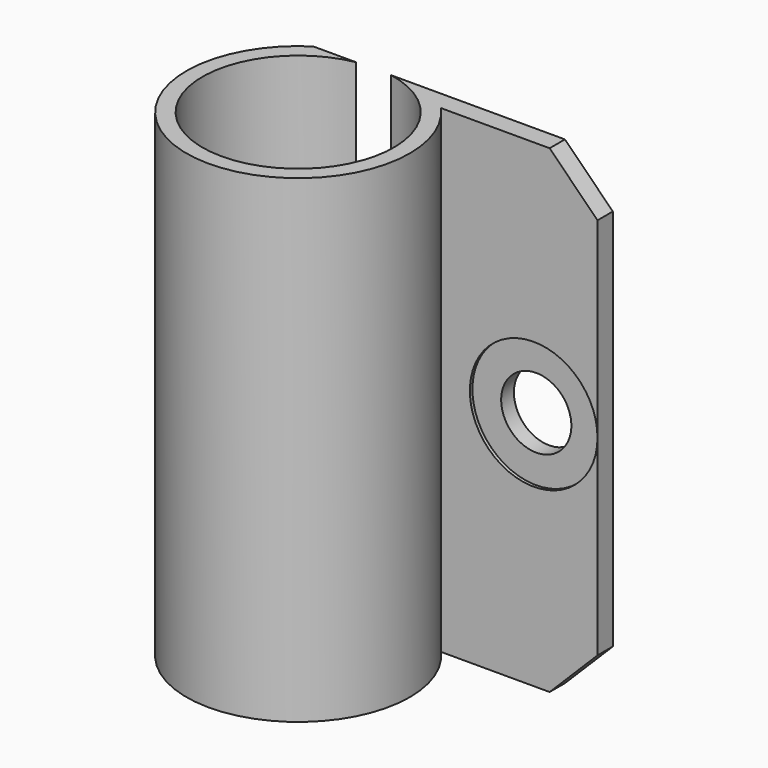
from build123d import *

# Parameters (mm, degrees)
SKETCH_R        = 7
SKETCH_R_2      = 6
PAD_DEPTH       = 30
SKETCH001_W     = 21.169265
SKETCH001_H     = 5.002638
POCKET_DEPTH    = 30.001
SKETCH002_W     = 11.233038
SKETCH002_H     = 30
SKETCH002_R     = 2.2
PAD001_DEPTH    = 1.2
SKETCH003_R     = 4
POCKET001_DEPTH = 0.2
CHAMFER_SIZE    = 3


with BuildPart() as part:
    # Sketch → Pad (new body)
    with BuildSketch(Plane.XY):
        Circle(SKETCH_R)
        Circle(SKETCH_R_2, mode=Mode.SUBTRACT)
    extrude(amount=PAD_DEPTH)

    # Sketch001 → Pocket (cut, through all)
    with BuildSketch(Plane.XY.offset(30)):
        with Locations((-0.201503, 8.401319)):
            Rectangle(SKETCH001_W, SKETCH001_H)
    extrude(amount=-POCKET_DEPTH, mode=Mode.SUBTRACT)

    # Sketch002 → Pad001 (new body)
    with BuildSketch(Plane(origin=(0, 5.9, 0), x_dir=(-1, 0, 0), z_dir=(0, 1, 0))):
        with Locations((-9.383481, 15)):
            Rectangle(SKETCH002_W, SKETCH002_H)
        with Locations((-11, 15)):
            Circle(SKETCH002_R, mode=Mode.SUBTRACT)
    extrude(amount=-PAD001_DEPTH)

    # Sketch003 → Pocket001 (cut)
    with BuildSketch(Plane.XZ.offset(-4.7)):
        with Locations((11, 15)):
            Circle(SKETCH003_R)
    extrude(amount=-POCKET001_DEPTH, mode=Mode.SUBTRACT)

    # Chamfer
    chamfer_edges = [part.edges().sort_by_distance(p)[0] for p in [
        (15, 5.3, 0),
        (15, 5.3, 30),
    ]]
    chamfer(chamfer_edges, length=CHAMFER_SIZE)


solid = part.part
